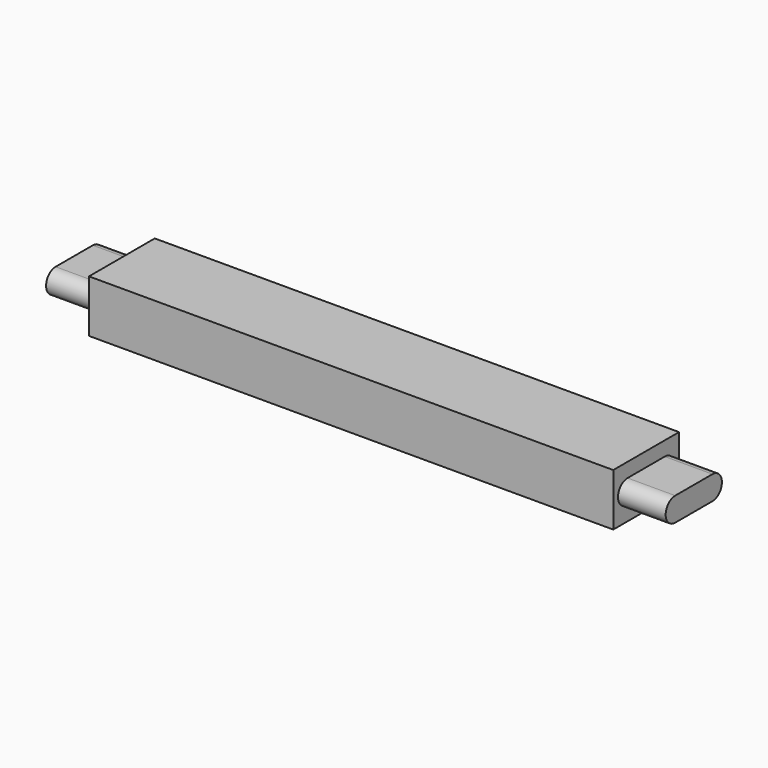
from build123d import *

# Parameters (mm, degrees)
F0_W     = 69
F0_H     = 44
F1_DEPTH = 440
F3_DEPTH = 40
F5_DEPTH = 40


with BuildPart() as f1:
    # F0 (on Right) → F1 (new body)
    with BuildSketch(Plane.YZ):
        with Locations((-3.159018, -14.54166)):
            Rectangle(F0_W, F0_H)
    extrude(amount=F1_DEPTH)

    # F2 (on face) → F3 (join)
    with BuildSketch(Plane(origin=(0, 0, 0), x_dir=(0, -1, 0), z_dir=(-1, 0, 0))):
        with BuildLine():
            ThreePointArc((-16.340982, -4.54166), (-26.340982, -14.54166), (-16.340982, -24.54166))
            Line((-16.340982, -24.54166), (22.659018, -24.54166))
            ThreePointArc((22.659018, -24.54166), (32.659018, -14.54166), (22.659018, -4.54166))
            Line((22.659018, -4.54166), (-16.340982, -4.54166))
        make_face()
    extrude(amount=F3_DEPTH)

    # F4 (on face) → F5 (join)
    with BuildSketch(Plane.YZ.offset(440)):
        with BuildLine():
            ThreePointArc((16.340982, -24.54166), (26.340982, -14.54166), (16.340982, -4.54166))
            Line((16.340982, -4.54166), (-22.659018, -4.54166))
            ThreePointArc((-22.659018, -4.54166), (-32.659018, -14.54166), (-22.659018, -24.54166))
            Line((-22.659018, -24.54166), (16.340982, -24.54166))
        make_face()
    extrude(amount=F5_DEPTH)


solid = f1.part
